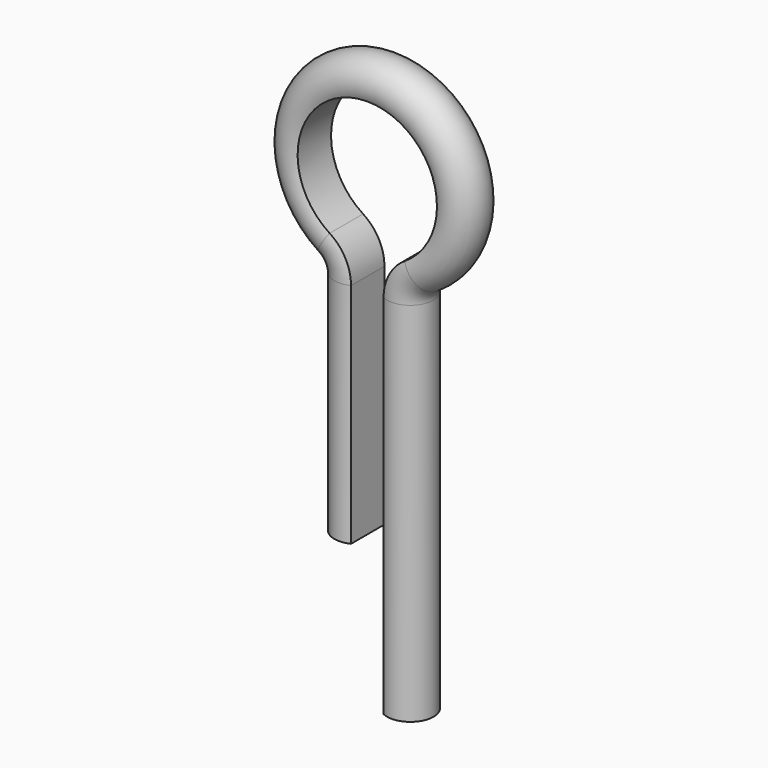
from build123d import *


with BuildPart() as f3:
    # F3: sweep along a path in F0
    with BuildLine(Plane.XZ) as f3_path:
        Line((3.5, -100), (3.5, -21.0416254125))
        ThreePointArc((3.5, -21.0416254125), (4.7250356126, -16.2457938892), (8.1, -12.6249752475))
        ThreePointArc((8.1, -12.6249752475), (0, 15), (-8.1, -12.6249752475))
        ThreePointArc((-8.1, -12.6249752475), (-4.7250356126, -16.2457938892), (-3.5, -21.0416254125))
        Line((-3.5, -21.0416254125), (-3.5, -70))
    # F2 (on plane+point) → F3 (sweep)
    with BuildSketch(Plane.XY.offset(-70)):
        with BuildLine():
            Line((-3.5, -4.5), (-3.5, 4.5))
            ThreePointArc((-3.5, 4.5), (-10.6794494718, 0), (-3.5, -4.5))
        make_face()
    sweep(path=f3_path.line)


solid = f3.part
